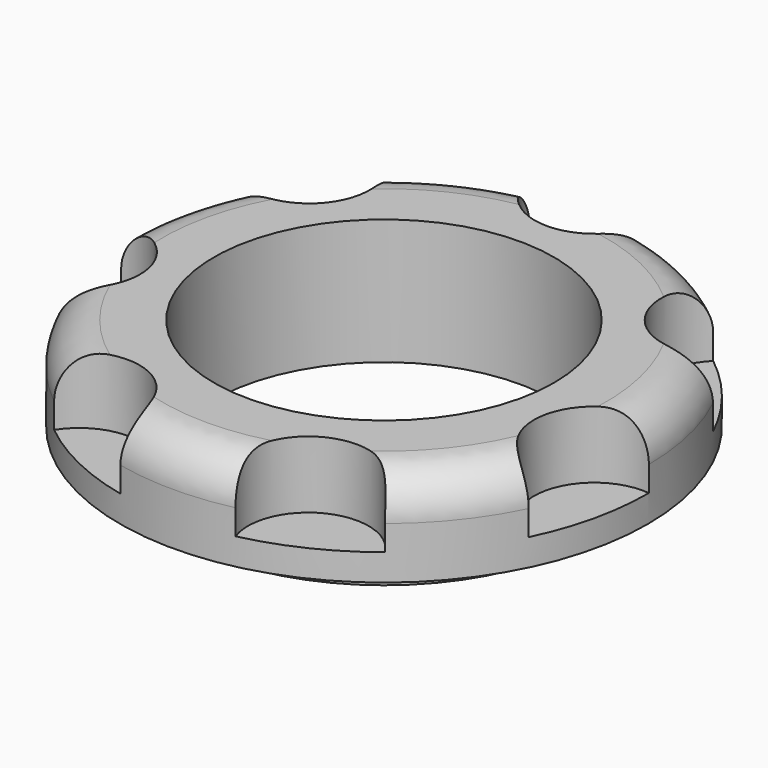
from build123d import *

# Parameters (mm, degrees)
F4_DEPTH = 10.16


with BuildPart() as f1:
    # F0 (on Front) → F1 (revolve)
    with BuildSketch(Plane.XZ):
        with BuildLine():
            Line((25.781, 19.05), (25.781, 0))
            Line((25.781, 0), (31.4325, 0))
            Line((31.4325, 0), (31.4325, 4.826))
            Line((31.4325, 4.826), (40.005, 4.826))
            Line((40.005, 4.826), (40.005, 12.7))
            ThreePointArc((40.005, 12.7), (38.1451280605, 17.1901280605), (33.655, 19.05))
            Line((33.655, 19.05), (25.781, 19.05))
        make_face()
    revolve(axis=Axis((0, 0, 5.4042546308), (0, 0, -1)))

    # F3 (on offset) → F4 (cut)
    with BuildSketch(Plane.XY.offset(19.05)):
        with BuildLine():
            ThreePointArc((9.084087807, 38.9599714286), (0, 40.005), (-9.084087807, 38.9599714286))
            ThreePointArc((-9.084087807, 38.9599714286), (0, 30.861), (9.084087807, 38.9599714286))
        make_face()
        with BuildLine():
            ThreePointArc((-36.1239683258, 17.1889190294), (-24.1281013804, 19.2415187752), (-24.7962961121, 31.3933707034))
            ThreePointArc((-24.7962961121, 31.3933707034), (-31.2771684561, 24.9427095234), (-36.1239683258, 17.1889190294))
        make_face()
        with BuildLine():
            ThreePointArc((-35.9617639006, -17.5257399889), (-30.0872502978, -6.8672185428), (-40.0045633065, 0.1869215305))
            ThreePointArc((-40.0045633065, 0.1869215305), (-39.0019911268, -8.9019499629), (-35.9617639006, -17.5257399889))
        make_face()
        with BuildLine():
            ThreePointArc((-8.719617772, -39.0431593357), (-13.3900860729, -27.8048002323), (-25.0885783867, -31.1602833673))
            ThreePointArc((-25.0885783867, -31.1602833673), (-17.3575189834, -36.0432595604), (-8.719617772, -39.0431593357))
        make_face()
        with BuildLine():
            ThreePointArc((25.0885783867, -31.1602833673), (13.3900860729, -27.8048002323), (8.719617772, -39.0431593357))
            ThreePointArc((8.719617772, -39.0431593357), (17.3575189834, -36.0432595604), (25.0885783867, -31.1602833673))
        make_face()
        with BuildLine():
            ThreePointArc((40.0045633065, 0.1869215305), (30.0872502978, -6.8672185428), (35.9617639006, -17.5257399889))
            ThreePointArc((35.9617639006, -17.5257399889), (39.0019911268, -8.9019499629), (40.0045633065, 0.1869215305))
        make_face()
        with BuildLine():
            ThreePointArc((24.7962961121, 31.3933707034), (24.1281013804, 19.2415187752), (36.1239683258, 17.1889190294))
            ThreePointArc((36.1239683258, 17.1889190294), (31.2771684561, 24.9427095234), (24.7962961121, 31.3933707034))
        make_face()
    extrude(amount=-F4_DEPTH, mode=Mode.SUBTRACT)


solid = f1.part
